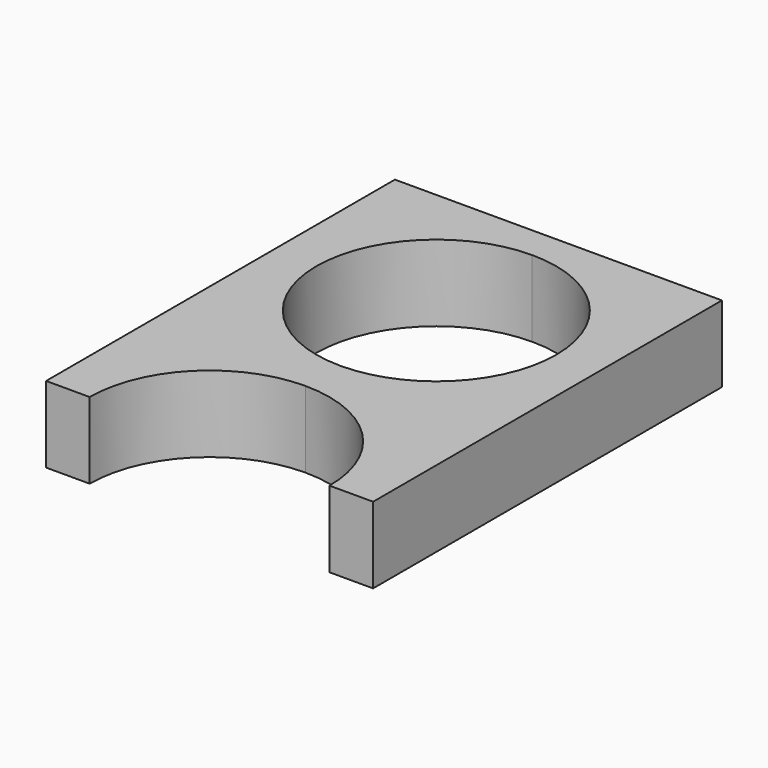
from build123d import *

# Parameters (mm, degrees)
F1_DEPTH = 7


with BuildPart() as f1:
    # F0 (on Top) → F1 (new body)
    with BuildSketch(Plane.XY):
        with BuildLine():
            ThreePointArc((0, 11), (7.778175, 7.778175), (11, 0))
            Line((11, 0), (15, 0))
            Line((15, 0), (15, 40))
            Line((15, 40), (0, 40))
            Line((0, 40), (0, 37))
            ThreePointArc((0, 37), (7.778175, 33.778175), (11, 26))
            ThreePointArc((11, 26), (7.778175, 18.221825), (0, 15))
            Line((0, 15), (0, 11))
        make_face()
        with BuildLine():
            ThreePointArc((-11, 0), (-7.778175, 7.778175), (0, 11))
            Line((0, 11), (0, 15))
            ThreePointArc((0, 15), (-11, 26), (0, 37))
            Line((0, 37), (0, 40))
            Line((0, 40), (-15, 40))
            Line((-15, 40), (-15, 0))
            Line((-15, 0), (-11, 0))
        make_face()
    extrude(amount=F1_DEPTH)


solid = f1.part
